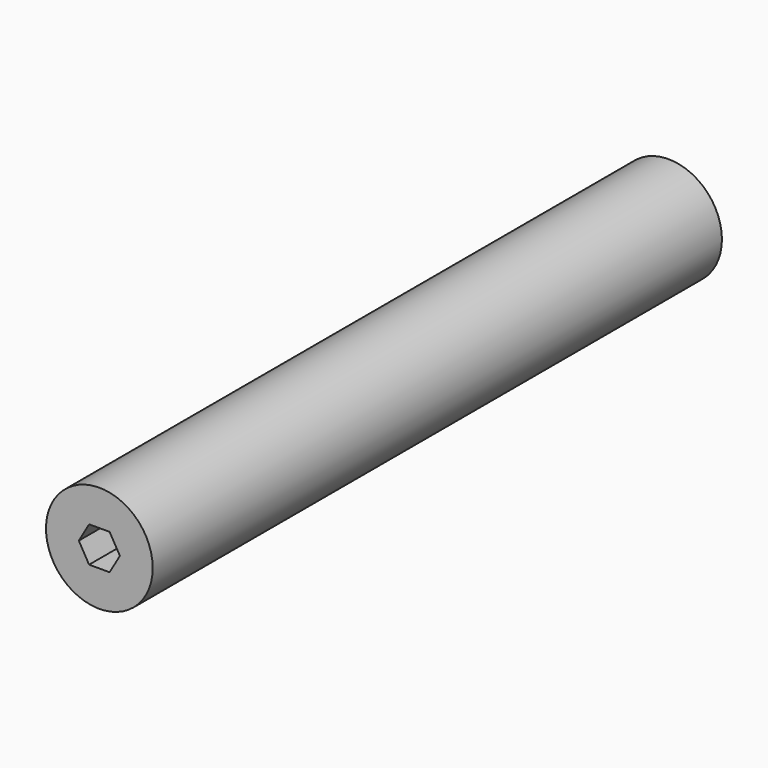
from build123d import *

# Parameters (mm, degrees)
F0_R     = 19.05
F1_DEPTH = 254
F3_DEPTH = 254.001


with BuildPart() as f1:
    # F0 (on Front) → F1 (new body)
    with BuildSketch(Plane.XZ):
        Circle(F0_R)
    extrude(amount=F1_DEPTH)

    # F2 (on Front) → F3 (cut, through all)
    with BuildSketch(Plane.XZ):
        Polygon((-3.666174, 6.35), (-7.332348, 0), (-3.666174, -6.35), (3.666174, -6.35), (7.332348, 0), (3.666174, 6.35), align=None)
    extrude(amount=F3_DEPTH, mode=Mode.SUBTRACT)


solid = f1.part
